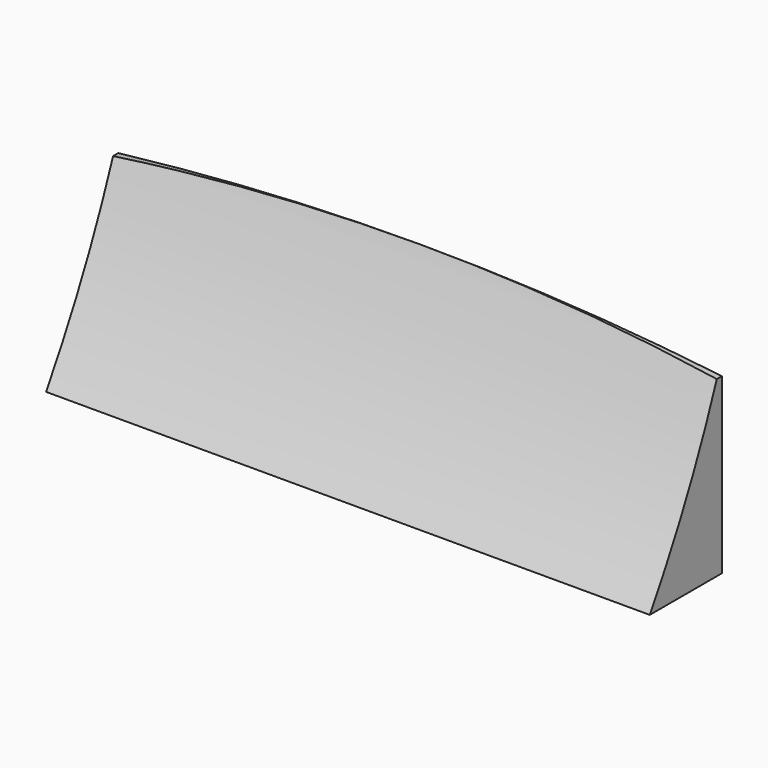
from build123d import *

# Parameters (mm, degrees)
F1_DEPTH = 0.7112
F2_R     = 7.9375
F3_DEPTH = 2.38125


with BuildPart() as f1:
    # F0 (on Front) → F1 (new body)
    with BuildSketch(Plane.XZ):
        with BuildLine():
            Line((2.38125, 18.7085645812), (2.38125, 20.0776828095))
            ThreePointArc((2.38125, 20.0776828095), (0, 20.2184), (-2.38125, 20.0776828095))
            Line((-2.38125, 20.0776828095), (-2.38125, 18.7085645812))
            Line((-2.38125, 18.7085645812), (0, 18.7085645812))
            Line((0, 18.7085645812), (2.38125, 18.7085645812))
        make_face()
    extrude(amount=-F1_DEPTH)

    # F2 (on Right) → F3 (cut, symmetric)
    with BuildSketch(Plane.YZ):
        with Locations((-6.7853422018, 22.8271854006)):
            Circle(F2_R)
    extrude(amount=F3_DEPTH, both=True, mode=Mode.SUBTRACT)


solid = f1.part
